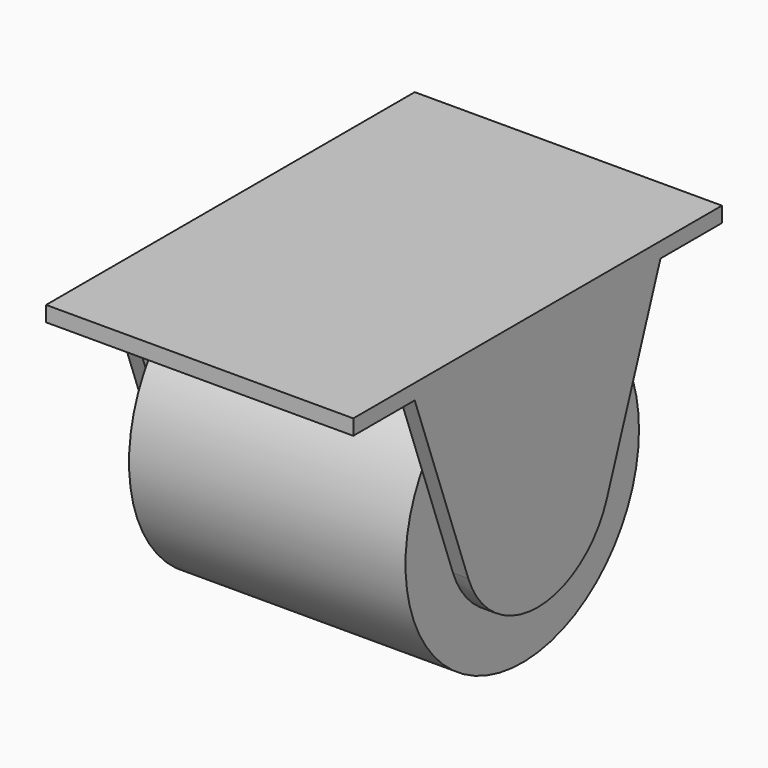
from build123d import *

# Parameters (mm, degrees)
F0_W     = 40
F0_H     = 60
F1_DEPTH = 2
F3_DEPTH = 20
F4_W     = 36
F4_H     = 40
F5_DEPTH = 20
F7_DEPTH = 36


with BuildPart() as f1:
    # F0 (on Top) → F1 (new body)
    with BuildSketch(Plane.XY):
        Rectangle(F0_W, F0_H)
    extrude(amount=-F1_DEPTH)

    # F2 (on Right) → F3 (join, symmetric)
    with BuildSketch(Plane.YZ):
        with BuildLine():
            Line((11.2763114494, -25.968137307), (20, -2))
            Line((20, -2), (-20, -2))
            Line((-20, -2), (-11.2763114494, -25.968137307))
            ThreePointArc((-11.2763114494, -25.968137307), (0, -33.8638955871), (11.2763114494, -25.968137307))
        make_face()
    extrude(amount=F3_DEPTH, both=True)

    # F4 (on Front) → F5 (cut, symmetric)
    with BuildSketch(Plane.XZ):
        with Locations((0, -22)):
            Rectangle(F4_W, F4_H)
    extrude(amount=F5_DEPTH, both=True, mode=Mode.SUBTRACT)


with BuildPart() as f7:
    # F6 (on face) → F7 (new body, through all)
    with BuildSketch(Plane.YZ.offset(-18)):
        with BuildLine():
            ThreePointArc((-16.3145827722, -12.1256006147), (-5.0508874135, -40.1802417385), (19, -21.8638955871))
            ThreePointArc((19, -21.8638955871), (18.3163461513, -16.8130081736), (16.3145827722, -12.1256006147))
            Line((16.3145827722, -12.1256006147), (11.2763114494, -25.968137307))
            ThreePointArc((11.2763114494, -25.968137307), (0, -33.8638955871), (-11.2763114494, -25.968137307))
            Line((-11.2763114494, -25.968137307), (-16.3145827722, -12.1256006147))
        make_face()
        with BuildLine():
            Line((11.2763114494, -25.968137307), (16.3145827722, -12.1256006147))
            ThreePointArc((16.3145827722, -12.1256006147), (0, -2.8638955871), (-16.3145827722, -12.1256006147))
            Line((-16.3145827722, -12.1256006147), (-11.2763114494, -25.968137307))
            ThreePointArc((-11.2763114494, -25.968137307), (0, -33.8638955871), (11.2763114494, -25.968137307))
        make_face()
    extrude(amount=F7_DEPTH)


solid = Compound([f1.part, f7.part])
